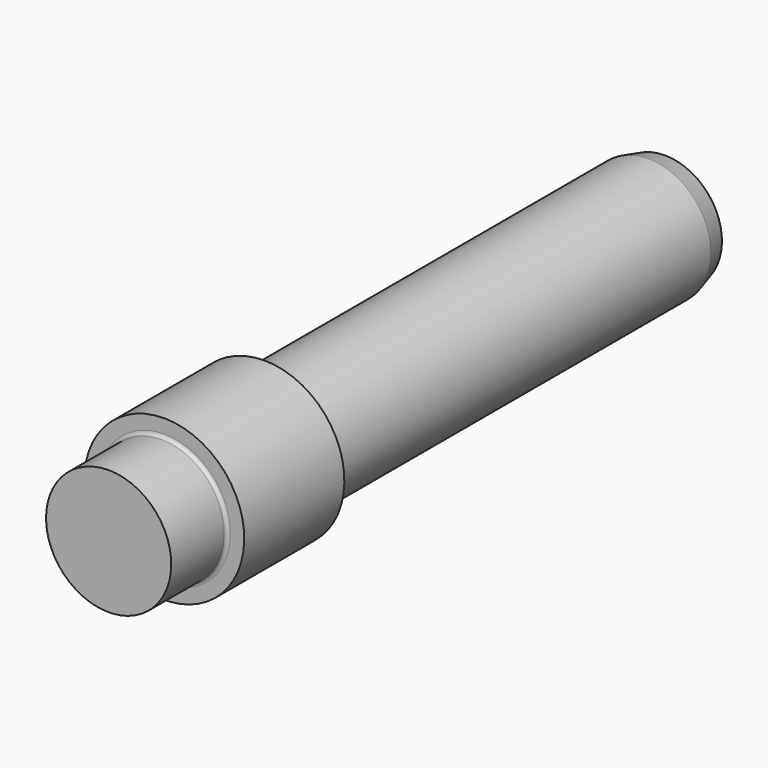
from build123d import *

# Parameters (mm, degrees)
F2_R = 0.79375
F3_R = 0.79375


with BuildPart() as f1:
    # F0 (on Right) → F1 (revolve)
    with BuildSketch(Plane.YZ):
        Polygon((-15.875, 14.2875), (-15.875, 0), (142.875, 0), (142.875, 13.011392), (138.1125, 14.2875), (28.575, 14.2875), (28.575, 18.25625), (0, 18.25625), (0, 14.2875), align=None)
    revolve(axis=Axis((0, 63.5, 0), (0, 1, 0)))

    # F2
    f2_edges = [f1.edges().sort_by_distance(p)[0] for p in [
        (0, 0, -14.2875),
    ]]
    fillet(f2_edges, radius=F2_R)

    # F3
    f3_edges = [f1.edges().sort_by_distance(p)[0] for p in [
        (0, 28.575, -14.2875),
    ]]
    fillet(f3_edges, radius=F3_R)


solid = f1.part
